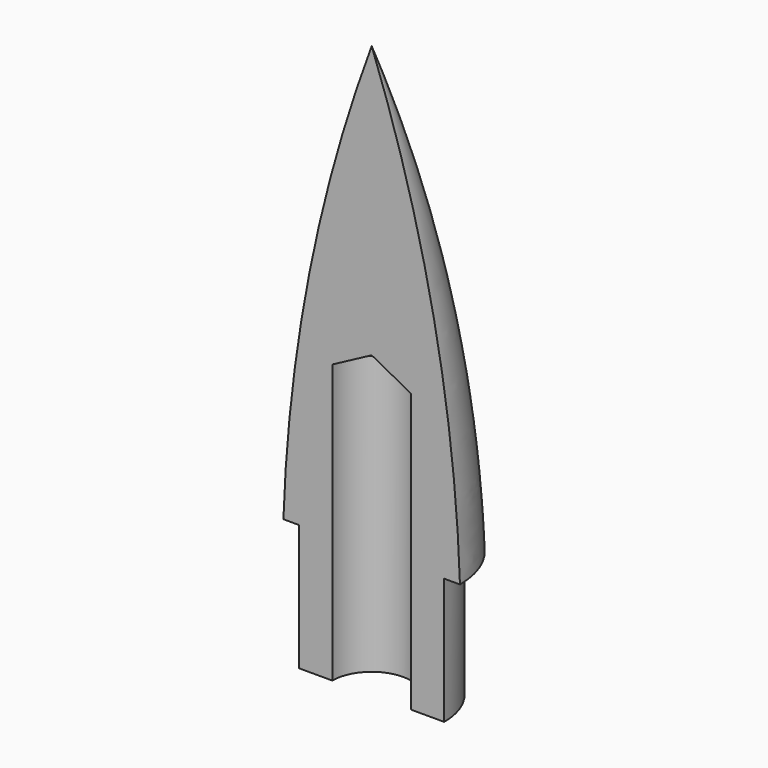
from build123d import *

# Parameters (mm, degrees)
F1_ANGLE = 180


with BuildPart() as f1:
    # F0 (on Front) → F1 (revolve)
    with BuildSketch(Plane.XZ):
        with BuildLine():
            Line((2.921, -1.016), (2.921, 0))
            Line((2.921, 0), (3.556, 0))
            ThreePointArc((3.556, 0), (2.503044, 9.11053), (0, 17.933524))
            Line((0, 17.933524), (0, 6.971839))
            Line((0, 6.971839), (1.5875, 6.12775))
            Line((1.5875, 6.12775), (1.5875, -1.016))
            Line((1.5875, -1.016), (1.5875, -5.08))
            Line((1.5875, -5.08), (2.921, -5.08))
            Line((2.921, -5.08), (2.921, -1.016))
        make_face()
    revolve(axis=Axis((0, 0, 12.452682), (0, 0, 1)), revolution_arc=F1_ANGLE)


solid = f1.part
